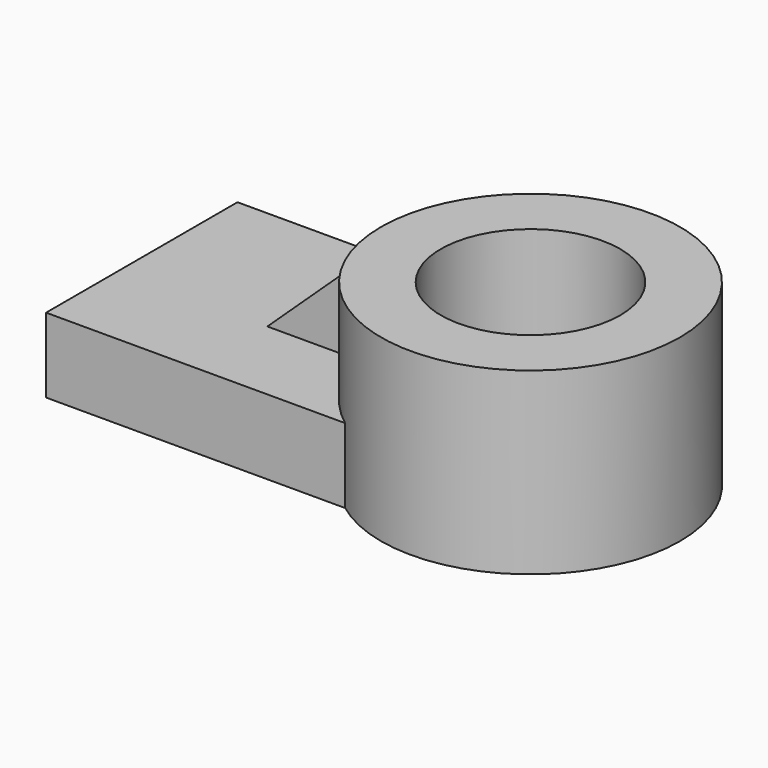
from build123d import *

# Parameters (mm, degrees)
F0_R     = 31.75
F0_R_2   = 19.05
F1_DEPTH = 38.1
F3_DEPTH = 15.875
F5_DEPTH = 6.35


with BuildPart() as f1:
    # F0 (on Top) → F1 (new body)
    with BuildSketch(Plane.XY):
        Circle(F0_R)
        Circle(F0_R_2, mode=Mode.SUBTRACT)
    extrude(amount=F1_DEPTH)

    # F2 (on face) → F3 (join)
    with BuildSketch(Plane(origin=(0, 0, 0), x_dir=(1, 0, 0), z_dir=(0, 0, -1))):
        with BuildLine():
            Line((-82.55, -25.4), (-19.05, -25.4))
            ThreePointArc((-19.05, -25.4), (-31.75, 0), (-19.05, 25.4))
            Line((-19.05, 25.4), (-82.55, 25.4))
            Line((-82.55, 25.4), (-82.55, -25.4))
        make_face()
    extrude(amount=-F3_DEPTH)

    # F4 (on Front) → F5 (join, symmetric)
    with BuildSketch(Plane.XZ):
        Polygon((-30.745536, 34.708899), (-50.8, 15.875), (-30.745536, 15.875), align=None)
    extrude(amount=F5_DEPTH, both=True)


solid = f1.part
